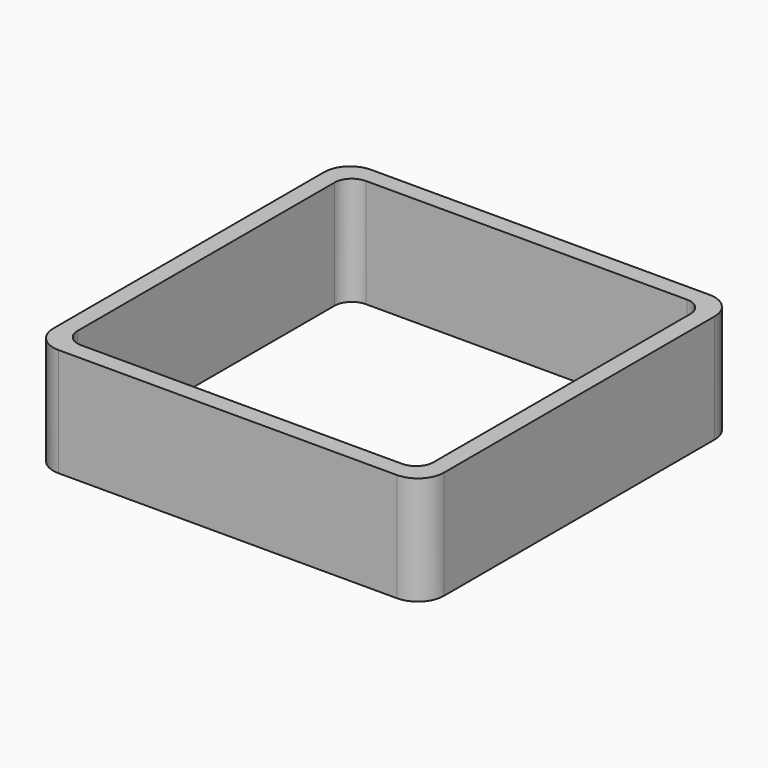
from build123d import *

# Parameters (mm, degrees)
EXTRUDE_DEPTH = 50


with BuildPart() as part:
    # Sketch → Extrude (new body)
    with BuildSketch(Plane.XY):
        with BuildLine():
            Line((-78, 90), (78, 90))
            ThreePointArc((90, 78), (86.485281, 86.485281), (78, 90))
            Line((90, 78), (90, -78))
            ThreePointArc((78, -90), (86.485281, -86.485281), (90, -78))
            Line((78, -90), (-78, -90))
            ThreePointArc((-90, -78), (-86.485281, -86.485281), (-78, -90))
            Line((-90, -78), (-90, 78))
            ThreePointArc((-78, 90), (-86.485281, 86.485281), (-90, 78))
        make_face()
        with BuildLine():
            Line((-74, 82), (74, 82))
            ThreePointArc((82, 74), (79.656854, 79.656854), (74, 82))
            Line((82, 74), (82, -74))
            ThreePointArc((74, -82), (79.656854, -79.656854), (82, -74))
            Line((74, -82), (-74, -82))
            ThreePointArc((-82, -74), (-79.656854, -79.656854), (-74, -82))
            Line((-82, -74), (-82, 74))
            ThreePointArc((-74, 82), (-79.656854, 79.656854), (-82, 74))
        make_face(mode=Mode.SUBTRACT)
    extrude(amount=EXTRUDE_DEPTH)


solid = part.part
